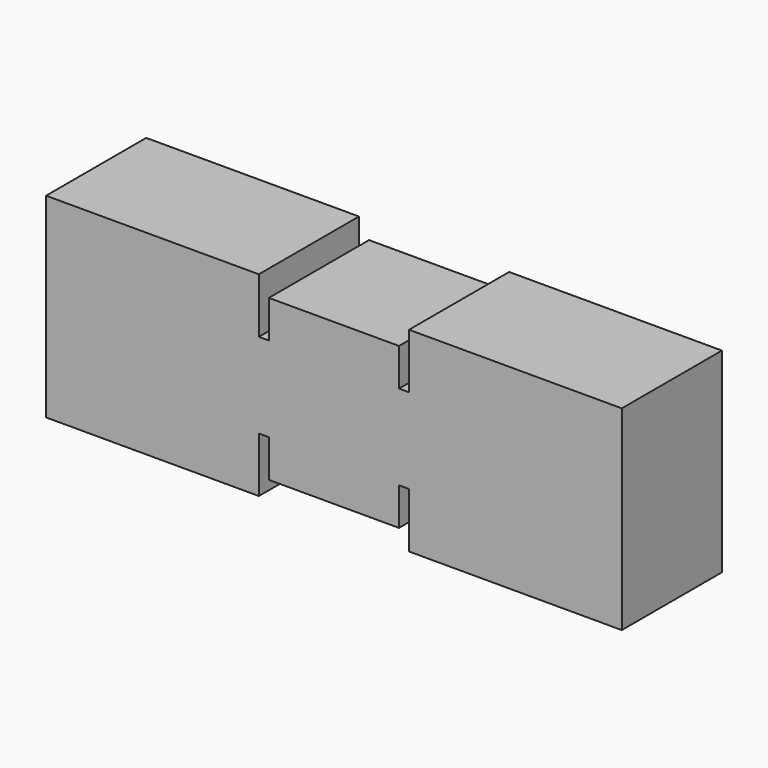
from build123d import *

# Parameters (mm, degrees)
F1_DEPTH = 12.7


with BuildPart() as f1:
    # F0 (on Front) → F1 (new body)
    with BuildSketch(Plane.XZ):
        Polygon((-29.21, 0), (0, 0), (0, 8.128), (-6.604, 8.128), (-6.604, 4.318), (-7.62, 4.318), (-7.62, 9.906), (-29.21, 9.906), align=None)
    extrude(amount=F1_DEPTH)

    # F2: F1 across face


with BuildPart() as f1_1:
    add(f1.part)
    add(f1.part.mirror(Plane(origin=(-14.605, -6.35, 0), x_dir=(1, 0, 0), z_dir=(0, 0, -1))))

    # F3: F1 across face


with BuildPart() as f1_2:
    add(f1_1.part)
    add(f1_1.part.mirror(Plane(origin=(0, -6.35, 0), x_dir=(0, 1, 0), z_dir=(1, 0, 0))))


solid = f1_2.part
